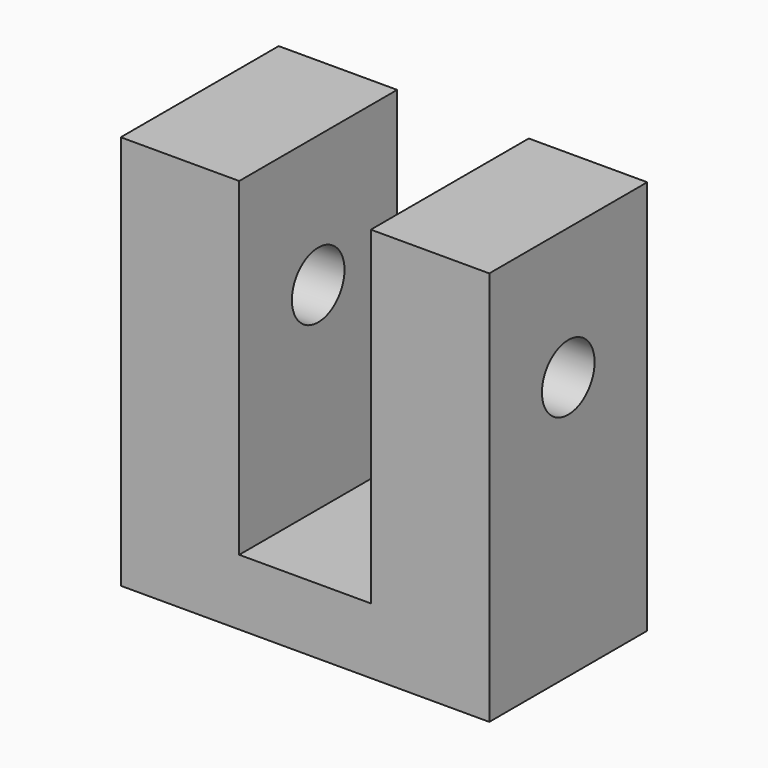
from build123d import *

# Parameters (mm, degrees)
F1_DEPTH = 0.75
F2_R     = 0.125
F3_DEPTH = 25
F4_R     = 0.125
F5_DEPTH = 0.5


with BuildPart() as f1:
    # F0 (on Front) → F1 (new body)
    with BuildSketch(Plane.XZ):
        Polygon((-0.25, 1.25), (-0.7, 1.25), (-0.7, -0.25), (0, -0.25), (0, 0), (-0.25, 0), align=None)
    extrude(amount=F1_DEPTH)

    # F2 (on face) → F3 (cut)
    with BuildSketch(Plane.YZ.offset(-0.25)):
        with Locations((-0.375, 0.75)):
            Circle(F2_R)
    extrude(amount=-F3_DEPTH, mode=Mode.SUBTRACT)

    # F4 (on face) → F5 (cut)
    with BuildSketch(Plane(origin=(0, 0, -0.25), x_dir=(1, 0, 0), z_dir=(0, 0, -1))):
        with Locations((-0.512, 0.5)):
            Circle(F4_R)
    extrude(amount=-F5_DEPTH, mode=Mode.SUBTRACT)

    # F6: F1 across face


with BuildPart() as f1_1:
    add(f1.part)
    add(f1.part.mirror(Plane(origin=(0, -0.375, -0.125), x_dir=(0, 1, 0), z_dir=(1, 0, 0))))


solid = f1_1.part
